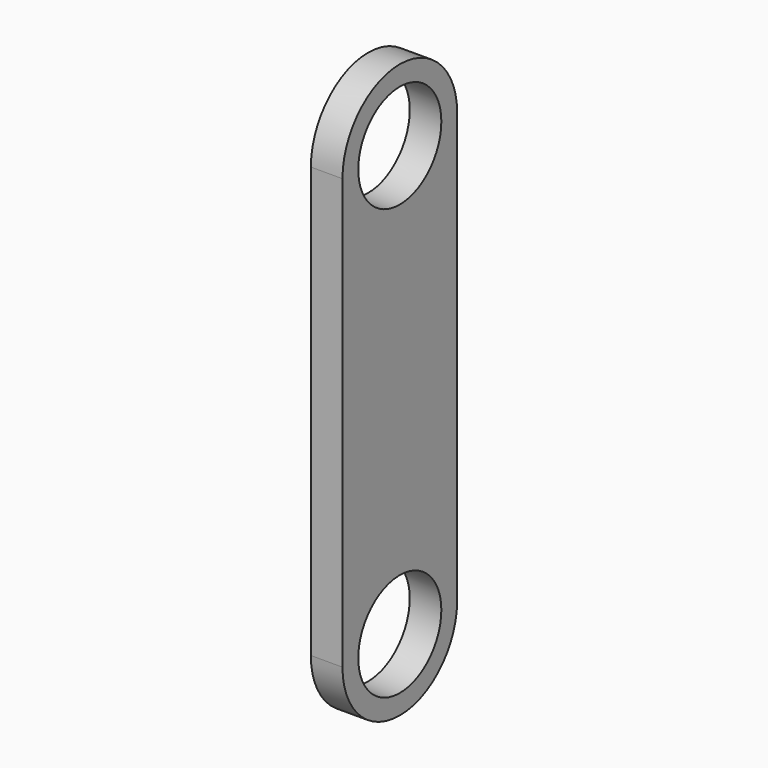
from build123d import *

# Parameters (mm, degrees)
F0_R     = 4.025
F1_DEPTH = 2.45


with BuildPart() as f1:
    # F0 (on Right) → F1 (new body)
    with BuildSketch(Plane.YZ):
        with BuildLine():
            ThreePointArc((-5.55625, 0), (0, -5.55625), (5.55625, 0))
            ThreePointArc((5.55625, 0), (0, 5.55625), (-5.55625, 0))
        make_face()
        Circle(F0_R, mode=Mode.SUBTRACT)
        with BuildLine():
            Line((5.55625, -33.3375), (5.55625, 0))
            ThreePointArc((5.55625, 0), (0, -5.55625), (-5.55625, 0))
            Line((-5.55625, 0), (-5.55625, -33.3375))
            ThreePointArc((-5.55625, -33.3375), (0, -27.78125), (5.55625, -33.3375))
        make_face()
        with BuildLine():
            ThreePointArc((-5.55625, -33.3375), (0, -38.89375), (5.55625, -33.3375))
            ThreePointArc((5.55625, -33.3375), (0, -27.78125), (-5.55625, -33.3375))
        make_face()
        with Locations((0, -33.3375)):
            Circle(F0_R, mode=Mode.SUBTRACT)
    extrude(amount=F1_DEPTH)


solid = f1.part
